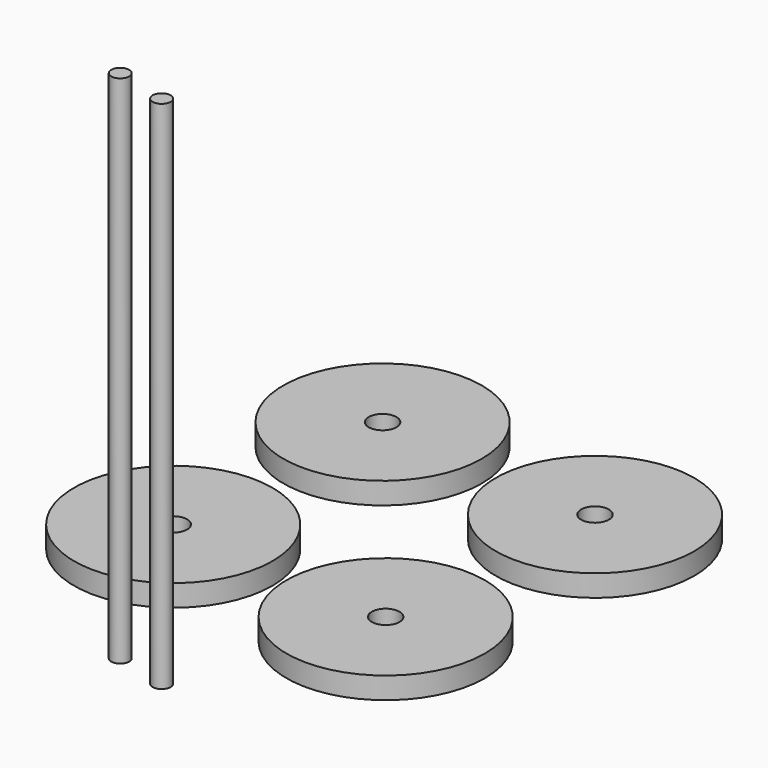
from build123d import *

# Parameters (mm, degrees)
F0_R     = 23.25
F0_R_2   = 3.25
F1_DEPTH = 5.08
F2_R     = 2.1
F3_DEPTH = 120.65


with BuildPart() as f1:
    # F0 (on Top) → F1 (new body)
    with BuildSketch(Plane.XY):
        with Locations((-40.580612, 37.414747)):
            Circle(F0_R)
        with Locations((-40.580612, 37.414747)):
            Circle(F0_R_2, mode=Mode.SUBTRACT)
        with Locations((12.619602, 33.097664)):
            Circle(F0_R)
        with Locations((12.619602, 33.097664)):
            Circle(F0_R_2, mode=Mode.SUBTRACT)
        with Locations((-45.163741, -18.134863)):
            Circle(F0_R)
        with Locations((-45.163741, -18.134863)):
            Circle(F0_R_2, mode=Mode.SUBTRACT)
        with Locations((8.036472, -22.451946)):
            Circle(F0_R)
        with Locations((8.036472, -22.451946)):
            Circle(F0_R_2, mode=Mode.SUBTRACT)
    extrude(amount=F1_DEPTH)


with BuildPart() as f3:
    # F2 (on Top) → F3 (new body)
    with BuildSketch(Plane.XY):
        with Locations((-25.697068, -57.983796)):
            Circle(F2_R)
        with Locations((-13.489387, -61.122917)):
            Circle(F2_R)
    extrude(amount=F3_DEPTH)


solid = Compound([f1.part, f3.part])
